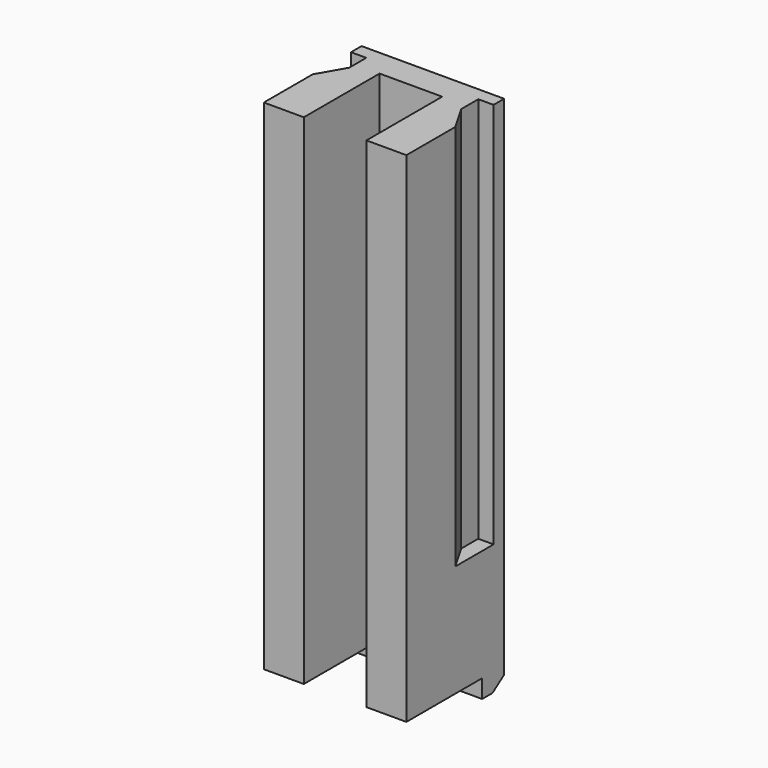
from build123d import *

# Parameters (mm, degrees)
F1_DEPTH = 49
F2_W     = 4.3
F2_H     = 15
F3_DEPTH = 25
F4_W     = 4.85
F4_H     = 2.7
F5_DEPTH = 1.8
F6_R     = 2
F7_SIZE2 = 1.4281480067
F7_SIZE  = 1
F9_DEPTH = 38


with BuildPart() as f1:
    # F0 (on Top) → F1 (new body)
    with BuildSketch(Plane.XY):
        Polygon((-3.075, -9.3), (-3.075, 0), (0, 0), (3.075, 0), (3.075, -9.3), (7, -9.3), (7, 2.7), (0, 2.7), (-7, 2.7), (-7, -9.3), align=None)
    extrude(amount=F1_DEPTH)

    # F2 (on face) → F3 (cut)
    with BuildSketch(Plane(origin=(0, 2.7, 0), x_dir=(-1, 0, 0), z_dir=(0, 1, 0))):
        with Locations((0, 7.5)):
            Rectangle(F2_W, F2_H)
    extrude(amount=-F3_DEPTH, mode=Mode.SUBTRACT)

    # F4 (on face) → F5 (join)
    with BuildSketch(Plane(origin=(0, 0, 0), x_dir=(1, 0, 0), z_dir=(0, 0, -1))):
        Polygon((2.15, -2.7), (7, -2.7), (7, 0), (3.075, 0), (2.15, 0), align=None)
        with Locations((-4.575, -1.35)):
            Rectangle(F4_W, F4_H)
    extrude(amount=F5_DEPTH)

    # F6
    f6_edges = [f1.edges().sort_by_distance(p)[0] for p in [
        (2.15, 1.35, 15),
        (-2.15, 1.35, 15),
    ]]
    fillet(f6_edges, radius=F6_R)

    # F7
    f7_edges = [f1.edges().sort_by_distance(p)[0] for p in [
        (4.575, 2.7, -1.8),
        (-4.575, 2.7, -1.8),
    ]]
    f7_side = f1.faces().sort_by_distance((0, 2.7, 25.492605))[0]
    chamfer(f7_edges, length=F7_SIZE, length2=F7_SIZE2, reference=f7_side)

    # F8 (on face) → F9 (cut)
    with BuildSketch(Plane.XY.offset(49)):
        Polygon((7, -3.3), (7, 1.4), (5.5, 1.4), (5.5, -0.7019237886), align=None)
        Polygon((-5.5, 1.4), (-7, 1.4), (-7, -3.3), (-5.5, -0.7019237886), align=None)
    extrude(amount=-F9_DEPTH, mode=Mode.SUBTRACT)


solid = f1.part
